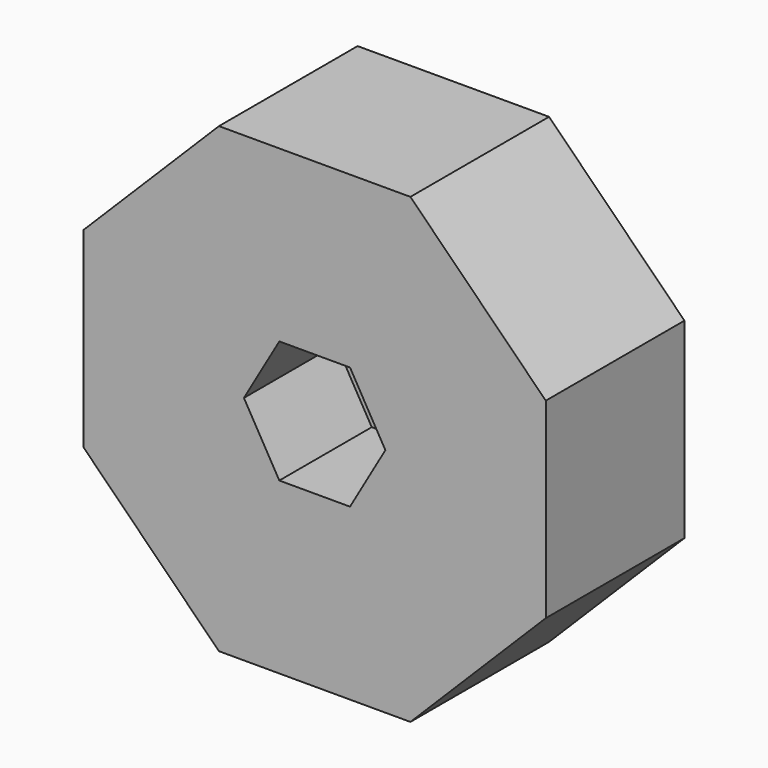
from build123d import *

# Parameters (mm, degrees)
F1_DEPTH = 3.175
F3_DEPTH = 6.35


with BuildPart() as f1:
    # F0 (on Front) → F1 (new body)
    with BuildSketch(Plane.XZ):
        Polygon((5.260512, 12.7), (-5.260512, 12.7), (-12.7, 5.260512), (-12.7, -5.260512), (-5.260512, -12.7), (5.260512, -12.7), (12.7, -5.260512), (12.7, 5.260512), align=None)
    extrude(amount=-F1_DEPTH)

    # F2 (on face) → F3 (join)
    with BuildSketch(Plane.XZ):
        Polygon((5.260512, -12.7), (12.7, -5.260512), (12.7, 5.260512), (5.260512, 12.7), (-5.260512, 12.7), (-12.7, 5.260512), (-12.7, -5.260512), (-5.260512, -12.7), align=None)
        Polygon((-3.886145, 0), (-1.943072, 3.3655), (1.943072, 3.3655), (3.886145, 0), (1.943072, -3.3655), (-1.943072, -3.3655), align=None, mode=Mode.SUBTRACT)
    extrude(amount=F3_DEPTH)


solid = f1.part
